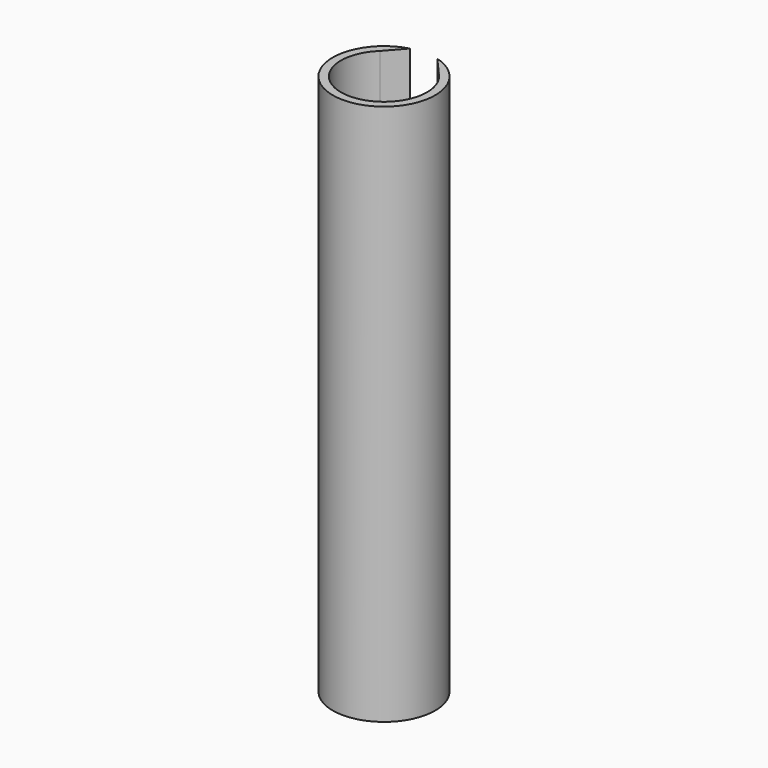
from build123d import *

# Parameters (mm, degrees)
F0_R     = 25.410924
F1_DEPTH = 268.732
F2_R     = 21.364523
F3_DEPTH = 1270
F5_DEPTH = 142240


with BuildPart() as f1:
    # F0 (on Top) → F1 (new body)
    with BuildSketch(Plane.XY):
        Circle(F0_R)
    extrude(amount=F1_DEPTH)

    # F2 (on face) → F3 (cut)
    with BuildSketch(Plane.XY.offset(268.732)):
        Circle(F2_R)
    extrude(amount=-F3_DEPTH, mode=Mode.SUBTRACT)

    # F4 (on face) → F5 (cut)
    with BuildSketch(Plane.XY.offset(268.732)):
        Polygon((0, 32.184474), (-14.504612, 15.68627), (14.643387, 15.68627), align=None)
    extrude(amount=-F5_DEPTH, mode=Mode.SUBTRACT)


solid = f1.part
